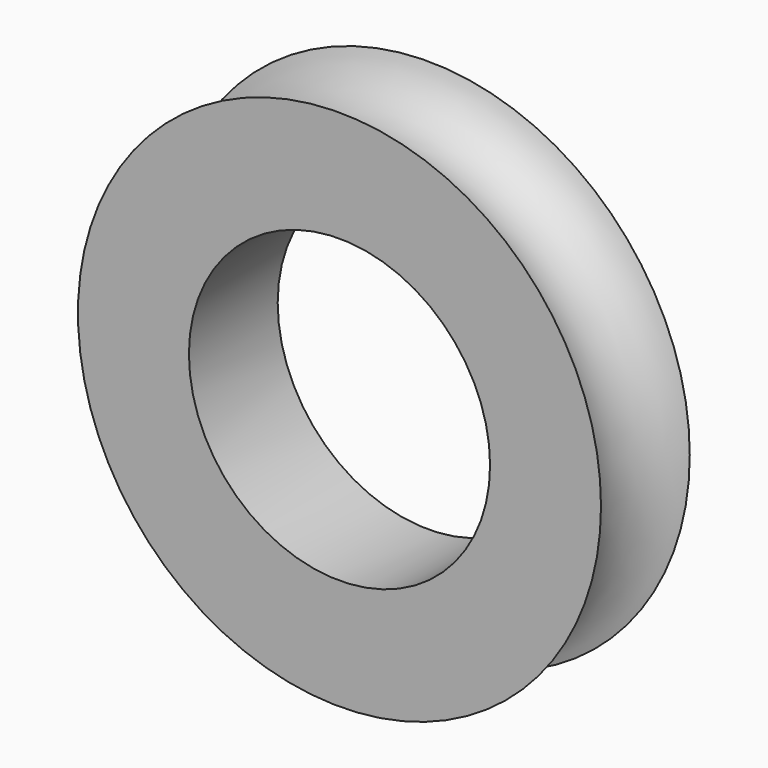
from build123d import *


with BuildPart() as f1:
    # F0 (on Top) → F1 (revolve)
    with BuildSketch(Plane.XY):
        with BuildLine():
            Line((14.142686, 40.804819), (8.142686, 40.804819))
            Line((8.142686, 40.804819), (8.142686, 34.804819))
            Line((8.142686, 34.804819), (14.142686, 34.804819))
            ThreePointArc((14.142686, 34.804819), (11.847227, 37.804819), (14.142686, 40.804819))
        make_face()
    revolve(axis=Axis((0, 34.692712, 0), (0, 1, 0)))


solid = f1.part
